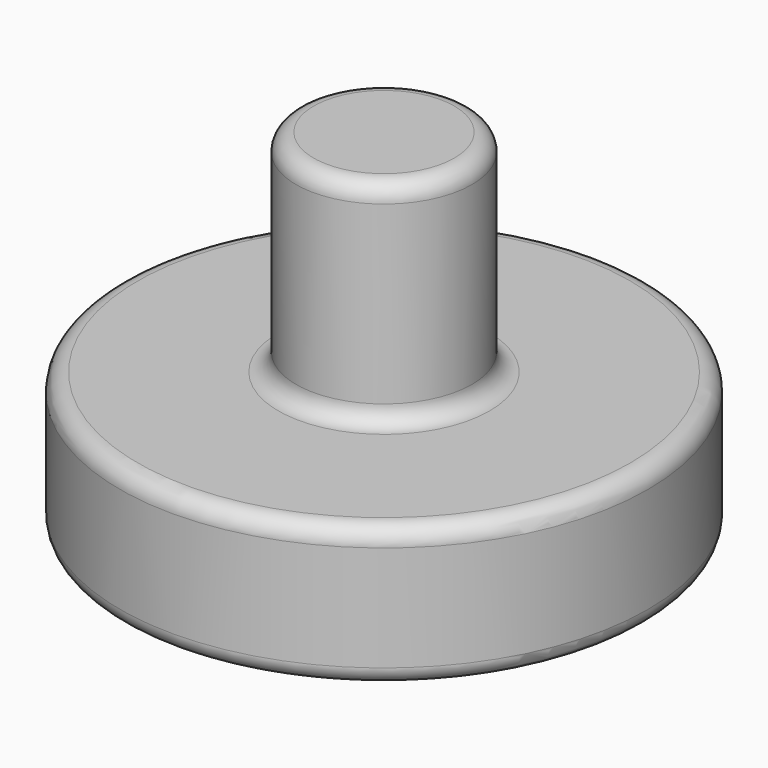
from build123d import *

# Parameters (mm, degrees)
F0_R     = 7.5
F0_R_2   = 2.5
F1_DEPTH = 4
F2_DEPTH = 10
F3_R     = 0.5


with BuildPart() as f1:
    # F0 (on Top) → F1 (new body)
    with BuildSketch(Plane.XY):
        Circle(F0_R)
        Circle(F0_R_2, mode=Mode.SUBTRACT)
        Circle(F0_R_2)
    extrude(amount=F1_DEPTH)

    # F0 (on Top) → F2 (join)
    with BuildSketch(Plane.XY):
        Circle(F0_R_2)
    extrude(amount=F2_DEPTH)

    # F3
    f3_edges = [f1.edges().sort_by_distance(p)[0] for p in [
        (-7.5, 0, 4),
        (-7.5, 0, 0),
        (-2.5, 0, 10),
        (-2.5, 0, 4),
    ]]
    fillet(f3_edges, radius=F3_R)


solid = f1.part
